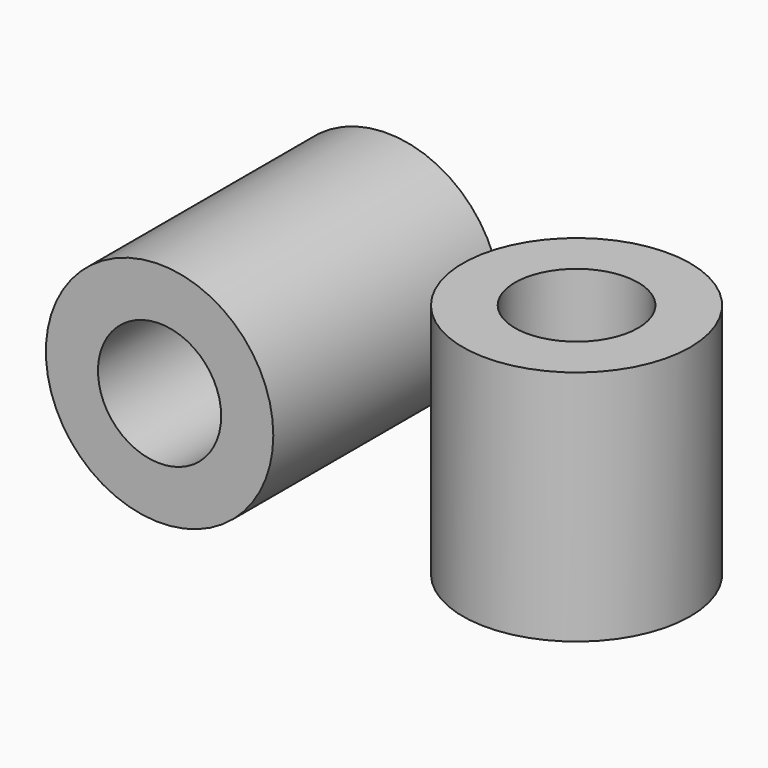
from build123d import *

# Parameters (mm, degrees)
F0_R     = 60
F0_R_2   = 32.5
F1_DEPTH = 62.5
F2_R     = 60
F2_R_2   = 32.5
F3_DEPTH = 75


with BuildPart() as f1:
    # F0 (on Top) → F1 (new body, symmetric)
    with BuildSketch(Plane.XY):
        Circle(F0_R)
        Circle(F0_R_2, mode=Mode.SUBTRACT)
    extrude(amount=F1_DEPTH, both=True)


with BuildPart() as f3:
    # F2 (on Front) → F3 (new body, symmetric)
    with BuildSketch(Plane.XZ):
        with Locations((-160, 0)):
            Circle(F2_R)
        with Locations((-160, 0)):
            Circle(F2_R_2, mode=Mode.SUBTRACT)
    extrude(amount=F3_DEPTH, both=True)


solid = Compound([f1.part, f3.part])
